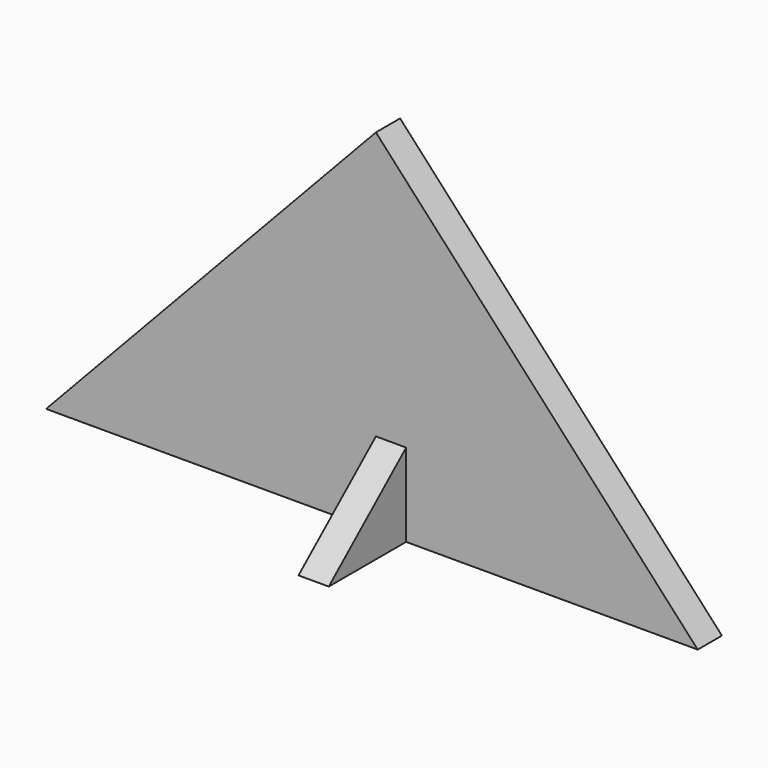
from build123d import *

# Parameters (mm, degrees)
F1_DEPTH = 1.27
F3_DEPTH = 2.54


with BuildPart() as f1:
    # F0 (on Front) → F1 (new body, symmetric)
    with BuildSketch(Plane.XZ):
        Polygon((0, 29.45), (-27.695966, 0), (0, 0), align=None)
        Polygon((0, 29.45), (0, 0), (27.024034, 0), align=None)
    extrude(amount=F1_DEPTH, both=True)

    # F2 (on Right) → F3 (join)
    with BuildSketch(Plane.YZ):
        Polygon((9.392343, 0), (0, 8.06467), (0, 0), align=None)
        Polygon((0, 0), (0, 8.06467), (-9.392343, 0), align=None)
    extrude(amount=F3_DEPTH)


solid = f1.part
